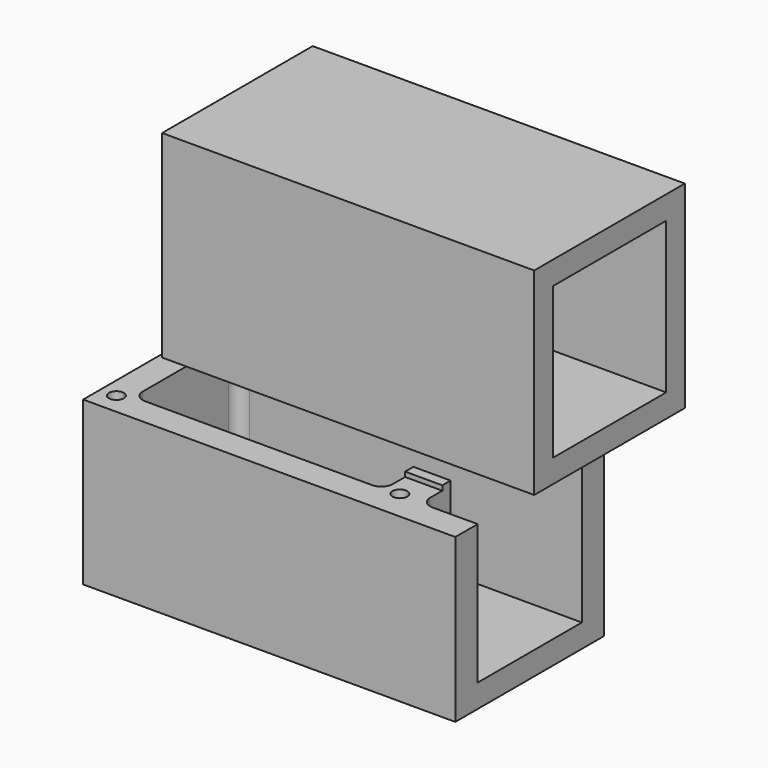
from build123d import *

# Parameters (mm, degrees)
F1_DEPTH      = 38.1
F2_W          = 101.6
F2_H          = 50.8
F3_DEPTH      = 6.35
F4_W          = 10.16
F4_H          = 2.8264755118
F5_DEPTH      = 1.2954
F7_D          = 4.064
F7_DEPTH      = 7.62
F7_TIP        = 1.2209487779
F8_W          = 51.3956062496
F8_H          = 53.9707001299
F9_DEPTH      = 50.8
F9_DEPTH_BACK = 50.8
F10_T         = -6.35


with BuildPart() as f1:
    # F0 (on Top) → F1 (new body)
    with BuildSketch(Plane.XY):
        with BuildLine():
            Line((-72.818674798, 0), (-72.818674798, -50.8))
            Line((-72.818674798, -50.8), (28.781325202, -50.8))
            Line((28.781325202, -50.8), (28.781325202, -43.18))
            Line((28.781325202, -43.18), (16.4492722979, -43.18))
            ThreePointArc((16.4492722979, -43.18), (14.2042082677, -42.2500640303), (13.2742722979, -40.005))
            Line((13.2742722979, -40.005), (13.2742722979, -33.02))
            Line((13.2742722979, -33.02), (3.1142722979, -33.02))
            Line((3.1142722979, -33.02), (3.1142722979, -40.005))
            ThreePointArc((3.1142722979, -40.005), (2.1843363282, -42.2500640303), (-0.0607277021, -43.18))
            Line((-0.0607277021, -43.18), (-62.023674798, -43.18))
            ThreePointArc((-62.023674798, -43.18), (-64.2687388283, -42.2500640303), (-65.198674798, -40.005))
            Line((-65.198674798, -40.005), (-65.198674798, -10.795))
            ThreePointArc((-65.198674798, -10.795), (-64.2687388283, -8.5499359697), (-62.023674798, -7.62))
            Line((-62.023674798, -7.62), (28.781325202, -7.62))
            Line((28.781325202, -7.62), (28.781325202, 0))
            Line((28.781325202, 0), (-72.818674798, 0))
        make_face()
    extrude(amount=-F1_DEPTH)

    # F2 (on face) → F3 (join)
    with BuildSketch(Plane(origin=(0, 0, -38.1), x_dir=(1, 0, 0), z_dir=(0, 0, -1))):
        with Locations((-22.018674798, 25.4)):
            Rectangle(F2_W, F2_H)
    extrude(amount=F3_DEPTH)

    # F4 (on face) → F5 (join)
    with BuildSketch(Plane.XY):
        Polygon((-72.818674798, 0), (-72.818674798, -5.08), (-67.738674798, 0), align=None)
        with Locations((8.1942722979, -34.4332377559)):
            Rectangle(F4_W, F4_H)
    extrude(amount=F5_DEPTH)

    # F7
    with Locations(Plane.XY):
        with Locations((-68.4241205454, -4.642683547), (-68.4241205454, -44.9577718973), (7.1074273437, -42.6333211362)):
            Hole(F7_D / 2, depth=F7_DEPTH)
            with Locations((0, 0, -(F7_DEPTH + F7_TIP / 2))):  # 118° drill point
                Cone(0, F7_D / 2, F7_TIP, mode=Mode.SUBTRACT)


with BuildPart() as f9:
    # F8 (on Right) → F9 (new body, two sides)
    with BuildSketch(Plane.YZ) as f9_sk:
        with Locations((-25.6978031248, 44.4805743173)):
            Rectangle(F8_W, F8_H)
    extrude(amount=-F9_DEPTH)
    extrude(f9_sk.sketch, amount=F9_DEPTH_BACK)

    # F10
    f10_openings = [f9.faces().sort_by_distance(p)[0] for p in [
        (50.8, -25.697803, 44.480574),
        (-50.8, -25.697803, 44.480574),
    ]]
    offset(amount=F10_T, openings=f10_openings)


solid = Compound([f1.part, f9.part])
